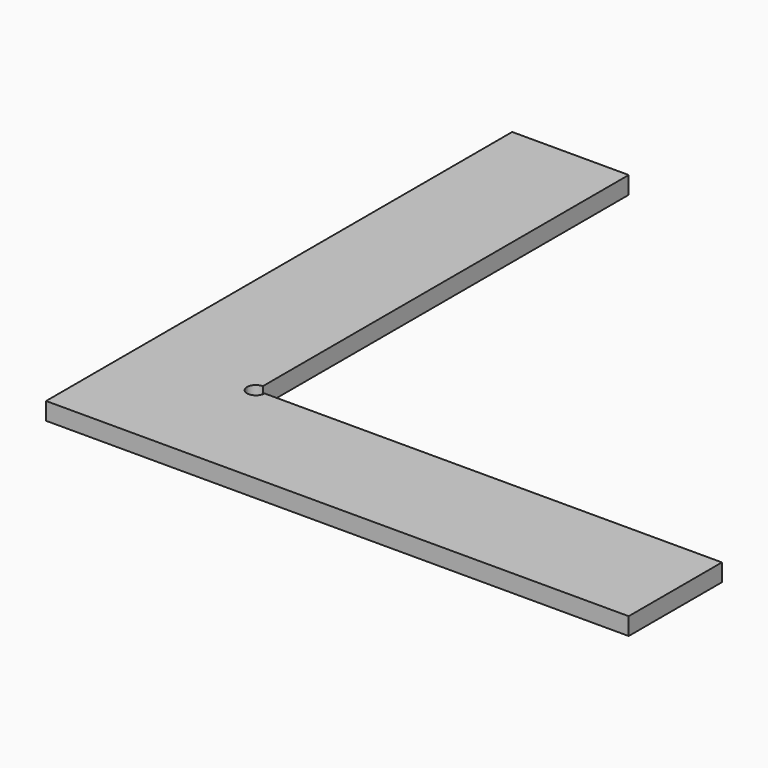
from build123d import *

# Parameters (mm, degrees)
F0_W     = 1
F0_H     = 1
F1_DEPTH = 3


with BuildPart() as f1:
    # F0 (on Top) → F1 (new body)
    with BuildSketch(Plane.XY):
        with BuildLine():
            Line((5, 5), (5, 0))
            Line((5, 0), (6, 0))
            Line((6, 0), (7, 0))
            Line((7, 0), (8, 0))
            Line((8, 0), (9, 0))
            Line((9, 0), (10, 0))
            Line((10, 0), (11, 0))
            Line((11, 0), (12, 0))
            Line((12, 0), (13, 0))
            Line((13, 0), (14, 0))
            Line((14, 0), (15, 0))
            Line((15, 0), (16, 0))
            Line((16, 0), (17, 0))
            Line((17, 0), (18, 0))
            Line((18, 0), (19, 0))
            Line((19, 0), (20, 0))
            Line((20, 0), (21, 0))
            Line((21, 0), (22, 0))
            Line((22, 0), (23, 0))
            Line((23, 0), (24, 0))
            Line((24, 0), (25, 0))
            Line((25, 0), (26, 0))
            Line((26, 0), (27, 0))
            Line((27, 0), (28, 0))
            Line((28, 0), (29, 0))
            Line((29, 0), (30, 0))
            Line((30, 0), (31, 0))
            Line((31, 0), (32, 0))
            Line((32, 0), (33, 0))
            Line((33, 0), (34, 0))
            Line((34, 0), (35, 0))
            Line((35, 0), (36, 0))
            Line((36, 0), (37, 0))
            Line((37, 0), (38, 0))
            Line((38, 0), (39, 0))
            Line((39, 0), (40, 0))
            Line((40, 0), (41, 0))
            Line((41, 0), (42, 0))
            Line((42, 0), (43, 0))
            Line((43, 0), (44, 0))
            Line((44, 0), (45, 0))
            Line((45, 0), (46, 0))
            Line((46, 0), (47, 0))
            Line((47, 0), (48, 0))
            Line((48, 0), (49, 0))
            Line((49, 0), (50, 0))
            Line((50, 0), (51, 0))
            Line((51, 0), (52, 0))
            Line((52, 0), (53, 0))
            Line((53, 0), (54, 0))
            Line((54, 0), (55, 0))
            Line((55, 0), (56, 0))
            Line((56, 0), (57, 0))
            Line((57, 0), (58, 0))
            Line((58, 0), (59, 0))
            Line((59, 0), (60, 0))
            Line((60, 0), (61, 0))
            Line((61, 0), (62, 0))
            Line((62, 0), (63, 0))
            Line((63, 0), (64, 0))
            Line((64, 0), (65, 0))
            Line((65, 0), (66, 0))
            Line((66, 0), (67, 0))
            Line((67, 0), (68, 0))
            Line((68, 0), (69, 0))
            Line((69, 0), (70, 0))
            Line((70, 0), (71, 0))
            Line((71, 0), (72, 0))
            Line((72, 0), (73, 0))
            Line((73, 0), (74, 0))
            Line((74, 0), (75, 0))
            Line((75, 0), (76, 0))
            Line((76, 0), (77, 0))
            Line((77, 0), (78, 0))
            Line((78, 0), (79, 0))
            Line((79, 0), (80, 0))
            Line((80, 0), (81, 0))
            Line((81, 0), (82, 0))
            Line((82, 0), (83, 0))
            Line((83, 0), (84, 0))
            Line((84, 0), (85, 0))
            Line((85, 0), (86, 0))
            Line((86, 0), (87, 0))
            Line((87, 0), (88, 0))
            Line((88, 0), (89, 0))
            Line((89, 0), (90, 0))
            Line((90, 0), (91, 0))
            Line((91, 0), (92, 0))
            Line((92, 0), (93, 0))
            Line((93, 0), (94, 0))
            Line((94, 0), (95, 0))
            Line((95, 0), (96, 0))
            Line((96, 0), (97, 0))
            Line((97, 0), (98, 0))
            Line((98, 0), (99, 0))
            Line((99, 0), (100, 0))
            Line((100, 0), (100, 5))
            Line((100, 5), (100, 20))
            Line((100, 20), (99, 20))
            Line((99, 20), (98, 20))
            Line((98, 20), (97, 20))
            Line((97, 20), (96, 20))
            Line((96, 20), (95, 20))
            Line((95, 20), (94, 20))
            Line((94, 20), (93, 20))
            Line((93, 20), (92, 20))
            Line((92, 20), (91, 20))
            Line((91, 20), (90, 20))
            Line((90, 20), (89, 20))
            Line((89, 20), (88, 20))
            Line((88, 20), (87, 20))
            Line((87, 20), (86, 20))
            Line((86, 20), (85, 20))
            Line((85, 20), (84, 20))
            Line((84, 20), (83, 20))
            Line((83, 20), (82, 20))
            Line((82, 20), (81, 20))
            Line((81, 20), (80, 20))
            Line((80, 20), (79, 20))
            Line((79, 20), (78, 20))
            Line((78, 20), (77, 20))
            Line((77, 20), (76, 20))
            Line((76, 20), (75, 20))
            Line((75, 20), (74, 20))
            Line((74, 20), (73, 20))
            Line((73, 20), (72, 20))
            Line((72, 20), (71, 20))
            Line((71, 20), (70, 20))
            Line((70, 20), (69, 20))
            Line((69, 20), (68, 20))
            Line((68, 20), (67, 20))
            Line((67, 20), (66, 20))
            Line((66, 20), (65, 20))
            Line((65, 20), (64, 20))
            Line((64, 20), (63, 20))
            Line((63, 20), (62, 20))
            Line((62, 20), (61, 20))
            Line((61, 20), (60, 20))
            Line((60, 20), (59, 20))
            Line((59, 20), (58, 20))
            Line((58, 20), (57, 20))
            Line((57, 20), (56, 20))
            Line((56, 20), (55, 20))
            Line((55, 20), (54, 20))
            Line((54, 20), (53, 20))
            Line((53, 20), (52, 20))
            Line((52, 20), (51, 20))
            Line((51, 20), (50, 20))
            Line((50, 20), (49, 20))
            Line((49, 20), (48, 20))
            Line((48, 20), (47, 20))
            Line((47, 20), (46, 20))
            Line((46, 20), (45, 20))
            Line((45, 20), (44, 20))
            Line((44, 20), (43, 20))
            Line((43, 20), (42, 20))
            Line((42, 20), (41, 20))
            Line((41, 20), (40, 20))
            Line((40, 20), (39, 20))
            Line((39, 20), (38, 20))
            Line((38, 20), (37, 20))
            Line((37, 20), (36, 20))
            Line((36, 20), (35, 20))
            Line((35, 20), (34, 20))
            Line((34, 20), (33, 20))
            Line((33, 20), (32, 20))
            Line((32, 20), (31, 20))
            Line((31, 20), (30, 20))
            Line((30, 20), (29, 20))
            Line((29, 20), (28, 20))
            Line((28, 20), (27, 20))
            Line((27, 20), (26, 20))
            Line((26, 20), (25, 20))
            Line((25, 20), (24, 20))
            Line((24, 20), (23, 20))
            Line((23, 20), (22, 20))
            Line((22, 20), (21.5, 20))
            ThreePointArc((21.5, 20), (21.06066, 18.93934), (20, 18.5))
            ThreePointArc((20, 18.5), (18.93934, 18.93934), (18.5, 20))
            ThreePointArc((18.5, 20), (18.93934, 21.06066), (20, 21.5))
            Line((20, 21.5), (20, 22))
            Line((20, 22), (20, 23))
            Line((20, 23), (20, 24))
            Line((20, 24), (20, 25))
            Line((20, 25), (20, 26))
            Line((20, 26), (20, 27))
            Line((20, 27), (20, 28))
            Line((20, 28), (20, 29))
            Line((20, 29), (20, 30))
            Line((20, 30), (20, 31))
            Line((20, 31), (20, 32))
            Line((20, 32), (20, 33))
            Line((20, 33), (20, 34))
            Line((20, 34), (20, 35))
            Line((20, 35), (20, 36))
            Line((20, 36), (20, 37))
            Line((20, 37), (20, 38))
            Line((20, 38), (20, 39))
            Line((20, 39), (20, 40))
            Line((20, 40), (20, 41))
            Line((20, 41), (20, 42))
            Line((20, 42), (20, 43))
            Line((20, 43), (20, 44))
            Line((20, 44), (20, 45))
            Line((20, 45), (20, 46))
            Line((20, 46), (20, 47))
            Line((20, 47), (20, 48))
            Line((20, 48), (20, 49))
            Line((20, 49), (20, 50))
            Line((20, 50), (20, 51))
            Line((20, 51), (20, 52))
            Line((20, 52), (20, 53))
            Line((20, 53), (20, 54))
            Line((20, 54), (20, 55))
            Line((20, 55), (20, 56))
            Line((20, 56), (20, 57))
            Line((20, 57), (20, 58))
            Line((20, 58), (20, 59))
            Line((20, 59), (20, 60))
            Line((20, 60), (20, 61))
            Line((20, 61), (20, 62))
            Line((20, 62), (20, 63))
            Line((20, 63), (20, 64))
            Line((20, 64), (20, 65))
            Line((20, 65), (20, 66))
            Line((20, 66), (20, 67))
            Line((20, 67), (20, 68))
            Line((20, 68), (20, 69))
            Line((20, 69), (20, 70))
            Line((20, 70), (20, 71))
            Line((20, 71), (20, 72))
            Line((20, 72), (20, 73))
            Line((20, 73), (20, 74))
            Line((20, 74), (20, 75))
            Line((20, 75), (20, 76))
            Line((20, 76), (20, 77))
            Line((20, 77), (20, 78))
            Line((20, 78), (20, 79))
            Line((20, 79), (20, 80))
            Line((20, 80), (20, 81))
            Line((20, 81), (20, 82))
            Line((20, 82), (20, 83))
            Line((20, 83), (20, 84))
            Line((20, 84), (20, 85))
            Line((20, 85), (20, 86))
            Line((20, 86), (20, 87))
            Line((20, 87), (20, 88))
            Line((20, 88), (20, 89))
            Line((20, 89), (20, 90))
            Line((20, 90), (20, 91))
            Line((20, 91), (20, 92))
            Line((20, 92), (20, 93))
            Line((20, 93), (20, 94))
            Line((20, 94), (20, 95))
            Line((20, 95), (20, 96))
            Line((20, 96), (20, 97))
            Line((20, 97), (20, 98))
            Line((20, 98), (20, 99))
            Line((20, 99), (20, 100))
            Line((20, 100), (5, 100))
            Line((5, 100), (0, 100))
            Line((0, 100), (0, 99))
            Line((0, 99), (0, 98))
            Line((0, 98), (0, 97))
            Line((0, 97), (0, 96))
            Line((0, 96), (0, 95))
            Line((0, 95), (0, 94))
            Line((0, 94), (0, 93))
            Line((0, 93), (0, 92))
            Line((0, 92), (0, 91))
            Line((0, 91), (0, 90))
            Line((0, 90), (0, 89))
            Line((0, 89), (0, 88))
            Line((0, 88), (0, 87))
            Line((0, 87), (0, 86))
            Line((0, 86), (0, 85))
            Line((0, 85), (0, 84))
            Line((0, 84), (0, 83))
            Line((0, 83), (0, 82))
            Line((0, 82), (0, 81))
            Line((0, 81), (0, 80))
            Line((0, 80), (0, 79))
            Line((0, 79), (0, 78))
            Line((0, 78), (0, 77))
            Line((0, 77), (0, 76))
            Line((0, 76), (0, 75))
            Line((0, 75), (0, 74))
            Line((0, 74), (0, 73))
            Line((0, 73), (0, 72))
            Line((0, 72), (0, 71))
            Line((0, 71), (0, 70))
            Line((0, 70), (0, 69))
            Line((0, 69), (0, 68))
            Line((0, 68), (0, 67))
            Line((0, 67), (0, 66))
            Line((0, 66), (0, 65))
            Line((0, 65), (0, 64))
            Line((0, 64), (0, 63))
            Line((0, 63), (0, 62))
            Line((0, 62), (0, 61))
            Line((0, 61), (0, 60))
            Line((0, 60), (0, 59))
            Line((0, 59), (0, 58))
            Line((0, 58), (0, 57))
            Line((0, 57), (0, 56))
            Line((0, 56), (0, 55))
            Line((0, 55), (0, 54))
            Line((0, 54), (0, 53))
            Line((0, 53), (0, 52))
            Line((0, 52), (0, 51))
            Line((0, 51), (0, 50))
            Line((0, 50), (0, 49))
            Line((0, 49), (0, 48))
            Line((0, 48), (0, 47))
            Line((0, 47), (0, 46))
            Line((0, 46), (0, 45))
            Line((0, 45), (0, 44))
            Line((0, 44), (0, 43))
            Line((0, 43), (0, 42))
            Line((0, 42), (0, 41))
            Line((0, 41), (0, 40))
            Line((0, 40), (0, 39))
            Line((0, 39), (0, 38))
            Line((0, 38), (0, 37))
            Line((0, 37), (0, 36))
            Line((0, 36), (0, 35))
            Line((0, 35), (0, 34))
            Line((0, 34), (0, 33))
            Line((0, 33), (0, 32))
            Line((0, 32), (0, 31))
            Line((0, 31), (0, 30))
            Line((0, 30), (0, 29))
            Line((0, 29), (0, 28))
            Line((0, 28), (0, 27))
            Line((0, 27), (0, 26))
            Line((0, 26), (0, 25))
            Line((0, 25), (0, 24))
            Line((0, 24), (0, 23))
            Line((0, 23), (0, 22))
            Line((0, 22), (0, 21))
            Line((0, 21), (0, 20))
            Line((0, 20), (0, 19))
            Line((0, 19), (0, 18))
            Line((0, 18), (0, 17))
            Line((0, 17), (0, 16))
            Line((0, 16), (0, 15))
            Line((0, 15), (0, 14))
            Line((0, 14), (0, 13))
            Line((0, 13), (0, 12))
            Line((0, 12), (0, 11))
            Line((0, 11), (0, 10))
            Line((0, 10), (0, 9))
            Line((0, 9), (0, 8))
            Line((0, 8), (0, 7))
            Line((0, 7), (0, 6))
            Line((0, 6), (0, 5))
            Line((0, 5), (5, 5))
        make_face()
        Polygon((1, 1), (1, 0), (2, 0), (3, 0), (4, 0), (5, 0), (5, 5), (0, 5), (0, 4), (0, 3), (0, 2), (0, 1), align=None)
        with Locations((0.5, 0.5)):
            Rectangle(F0_W, F0_H)
    extrude(amount=-F1_DEPTH)


solid = f1.part
